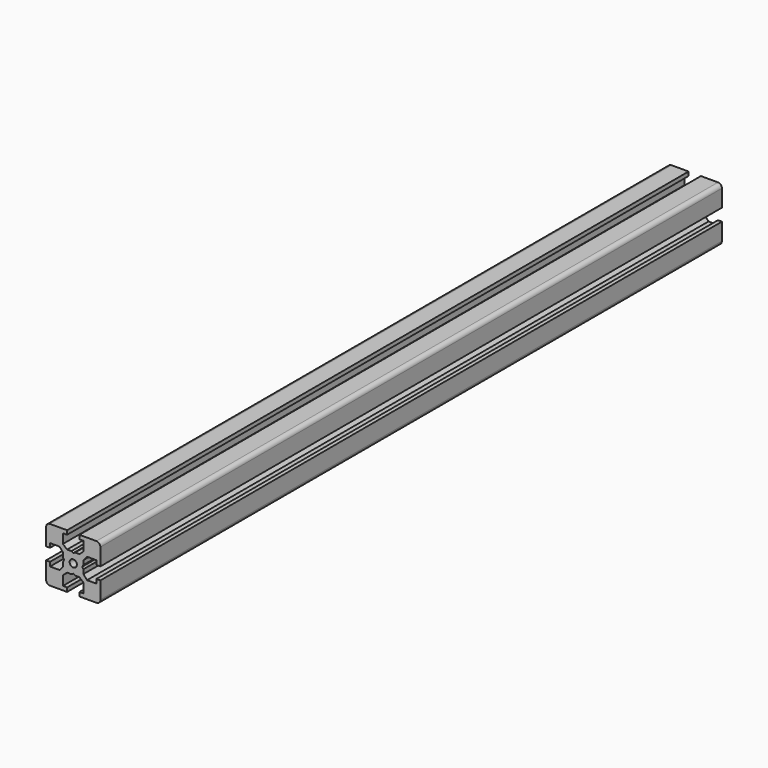
from build123d import *

# Parameters (mm, degrees)
F0_R     = 1
F1_DEPTH = 107.25
F2_R     = 1.1


with BuildPart() as f1:
    # F0 (on Front) → F1 (new body, symmetric)
    with BuildSketch(Plane.XZ):
        Polygon((-1.7, 2.8), (-2.85, 3.8), (-2.85, 6.4), (-1.7, 6.4), (-1.7, 7.5), (-7.5, 7.5), (-7.5, 1.7), (-6.4, 1.7), (-6.4, 2.85), (-3.8, 2.85), (-2.8, 1.7), (-2.8, 0.5196152423), (-2.5, 0), (-2.8, -0.5196152423), (-2.8, -1.7), (-3.8, -2.85), (-6.4, -2.85), (-6.4, -1.7), (-7.5, -1.7), (-7.5, -7.5), (-1.7, -7.5), (-1.7, -6.4), (-2.85, -6.4), (-2.85, -3.8), (-1.7, -2.8), (-0.5196152423, -2.8), (0, -2.5), (0.5196152423, -2.8), (1.7, -2.8), (2.85, -3.8), (2.85, -6.4), (1.7, -6.4), (1.7, -7.5), (7.5, -7.5), (7.5, -1.7), (6.4, -1.7), (6.4, -2.85), (3.8, -2.85), (2.8, -1.7), (2.8, -0.5196152423), (2.5, 0), (2.8, 0.5196152423), (2.8, 1.7), (3.8, 2.85), (6.4, 2.85), (6.4, 1.7), (7.5, 1.7), (7.5, 7.5), (1.7, 7.5), (1.7, 6.4), (2.85, 6.4), (2.85, 3.8), (1.7, 2.8), (0.5196152423, 2.8), (0, 2.5), (-0.5196152423, 2.8), align=None)
        Circle(F0_R, mode=Mode.SUBTRACT)
    extrude(amount=F1_DEPTH, both=True)

    # F2
    f2_edges = [f1.edges().sort_by_distance(p)[0] for p in [
        (7.5, 0, 7.5),
        (-7.5, 0, 7.5),
        (7.5, 0, -7.5),
        (-7.5, 0, -7.5),
    ]]
    fillet(f2_edges, radius=F2_R)


solid = f1.part
